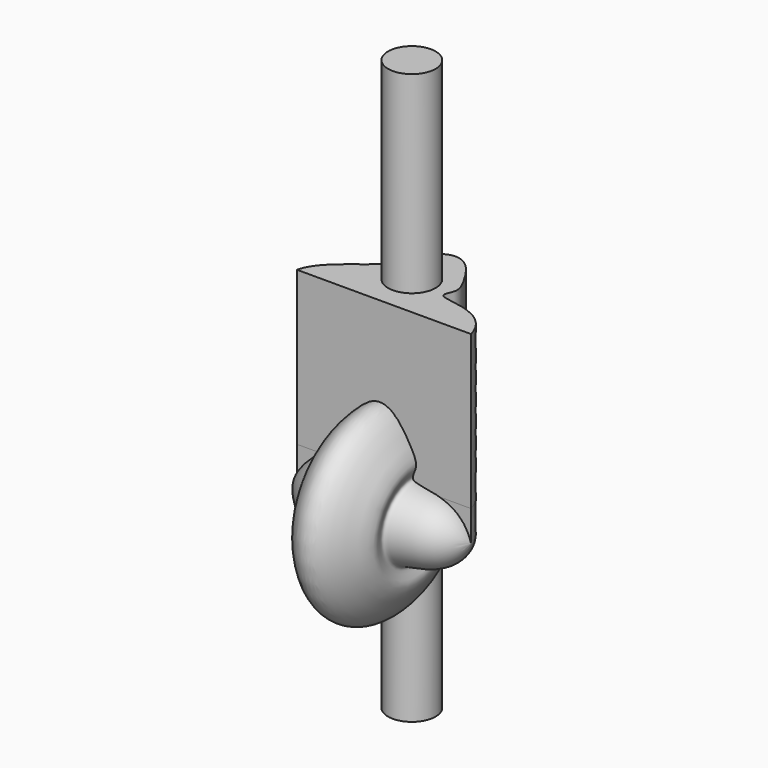
from build123d import *

# Parameters (mm, degrees)
F2_DEPTH = 25.4
F3_DEPTH = 127
F4_R     = 19.6202101609
F5_DEPTH = 159.512
F6_R     = 19.6202101609
F7_DEPTH = 159.512


with BuildPart() as f1:
    # F0 (on Top) → F1 (revolve)
    with BuildSketch(Plane.XY):
        with BuildLine():
            add(Edge.make_bspline(
                [(0, 0), (3.5501314016, 18.0476722556), (42.7236408237, 37.4533200441), (39.4230041579, 56.164923379), (60.6165168932, 81.3917788309), (80.6046142674, 76.9297444967), (94.1676365579, 54.7895663448), (100.9113423152, 41.037834886), (87.3885019004, 23.5236277202), (135.0884259707, 31.1360718559), (143.8321617332, 0)],
                knots=[0, 0, 0, 0, 0.1823810213, 0.2846111247, 0.4162296489, 0.5178677307, 0.6424542789, 0.7379501065, 0.8143414089, 1, 1, 1, 1], degree=3))
            Line((0, 0), (143.8321617332, 0))
        make_face()
    revolve(axis=Axis((71.9160808666, 0, 0), (1, 0, 0)))


with BuildPart() as f2:
    # F0 (on Top) → F2 (new body)
    with BuildSketch(Plane.XY):
        with BuildLine():
            add(Edge.make_bspline(
                [(0, 0), (3.5501314016, 18.0476722556), (42.7236408237, 37.4533200441), (39.4230041579, 56.164923379), (60.6165168932, 81.3917788309), (80.6046142674, 76.9297444967), (94.1676365579, 54.7895663448), (100.9113423152, 41.037834886), (87.3885019004, 23.5236277202), (135.0884259707, 31.1360718559), (143.8321617332, 0)],
                knots=[0, 0, 0, 0, 0.1823810213, 0.2846111247, 0.4162296489, 0.5178677307, 0.6424542789, 0.7379501065, 0.8143414089, 1, 1, 1, 1], degree=3))
            Line((0, 0), (143.8321617332, 0))
        make_face()
    extrude(amount=F2_DEPTH)


with BuildPart() as f3:
    # F3 (new): a face of the model
    f3_faces = [f2.part.faces().sort_by_distance(p)[0] for p in [
        (69.3510613027, 27.704333896, 25.4),
    ]]
    extrude(f3_faces, amount=F3_DEPTH)


with BuildPart() as f5:
    # F4 (on face) → F5 (new body)
    with BuildSketch(Plane.XY.offset(152.4)):
        with Locations((66.1422014236, 35.9207876027)):
            Circle(F4_R)
    extrude(amount=F5_DEPTH)


with BuildPart() as f7:
    # F6 (on Top) → F7 (new body)
    with BuildSketch(Plane.XY):
        with Locations((66.1422014236, 35.9207876027)):
            Circle(F6_R)
    extrude(amount=-F7_DEPTH)


solid = Compound([f1.part, f2.part, f3.part, f5.part, f7.part])
